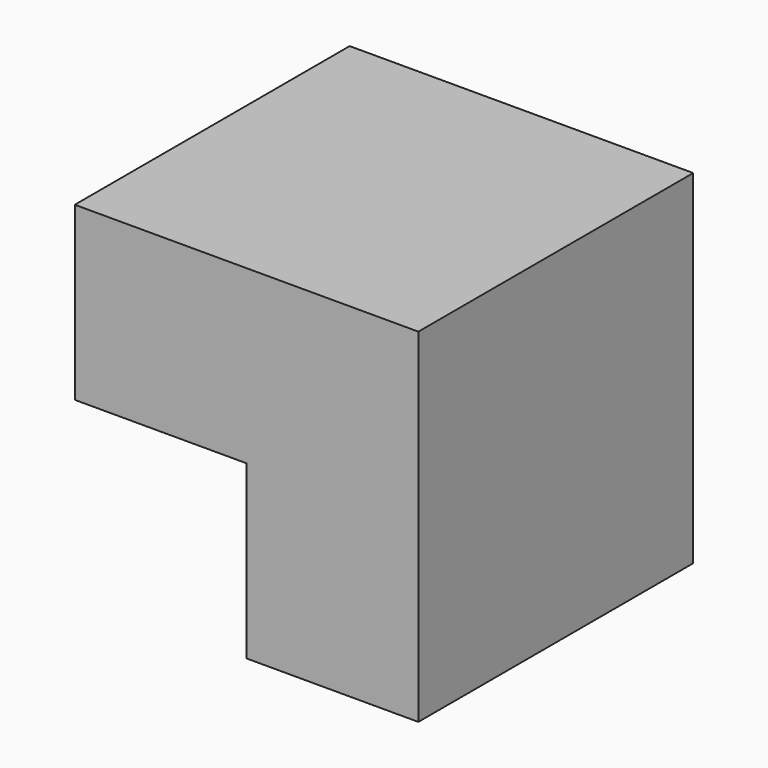
from build123d import *

# Parameters (mm, degrees)
F0_W     = 19.05
F0_H     = 19.05
F1_DEPTH = 38.1


with BuildPart() as f1:
    # F0 (on Front) → F1 (new body)
    with BuildSketch(Plane.XZ):
        with Locations((-39.091079, 26.325023)):
            Rectangle(F0_W, F0_H)
        with Locations((-58.141079, 26.325023)):
            Rectangle(F0_W, F0_H)
        with Locations((-39.091079, 7.275023)):
            Rectangle(F0_W, F0_H)
    extrude(amount=F1_DEPTH)


solid = f1.part
